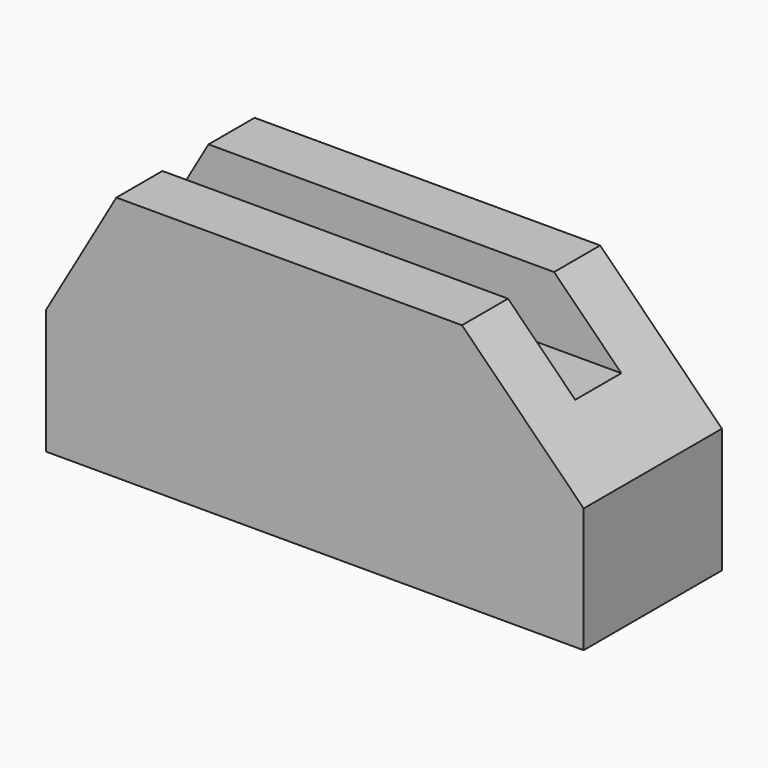
from build123d import *

# Parameters (mm, degrees)
F1_DEPTH = 228.6
F2_W     = 2286
F2_H     = 152.4
F3_DEPTH = 177.8


with BuildPart() as f1:
    # F0 (on Front) → F1 (new body, symmetric)
    with BuildSketch(Plane.XZ):
        Polygon((0, 330.2), (0, 0), (1422.4, 0), (1422.4, 330.2), (1100.3409051225, 652.2590948775), (185.9409051225, 652.2590948775), align=None)
    extrude(amount=F1_DEPTH, both=True)

    # F2 (on face) → F3 (cut)
    with BuildSketch(Plane.XY.offset(652.2590948775)):
        with Locations((1074.9409051225, 0)):
            Rectangle(F2_W, F2_H)
    extrude(amount=-F3_DEPTH, mode=Mode.SUBTRACT)


solid = f1.part
